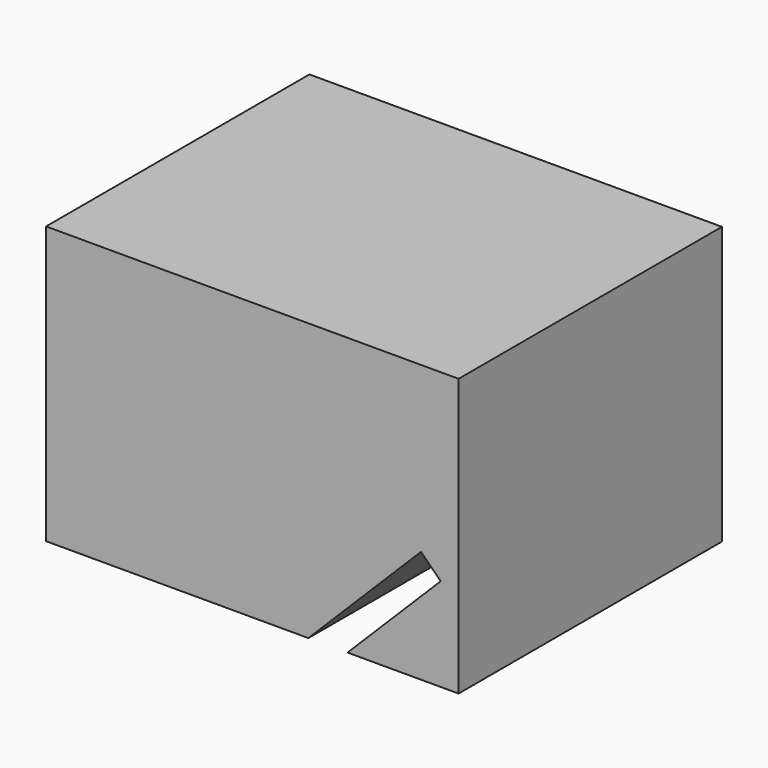
from build123d import *

# Parameters (mm, degrees)
F0_W     = 37.809022
F0_H     = 30.170836
F1_DEPTH = 25.4
F4_W     = 43.719644
F4_H     = 120.03813
F5_DEPTH = 2.54


with BuildPart() as f1:
    # F0 (on Top) → F1 (new body)
    with BuildSketch(Plane.XY):
        Rectangle(F0_W, F0_H)
    extrude(amount=F1_DEPTH)


with BuildPart() as f5:
    # F4 (on face) → F5 (new body)
    with BuildSketch(Plane(origin=(14.130645, 0, -14.130645), x_dir=(0.707107, 0, 0.707107), z_dir=(-0.707107, 0, 0.707107))):
        with Locations((10.187182, -33.240173)):
            Rectangle(F4_W, F4_H)
    extrude(amount=F5_DEPTH)


with BuildPart() as f5_1:
    # F6: moved
    add(f5.part.moved(Location((-19.5326, 0, 0))))


with BuildPart() as f1_1:
    add(f1.part)

    # F7: cut F5
    add(f5_1.part, mode=Mode.SUBTRACT)


solid = f1_1.part
